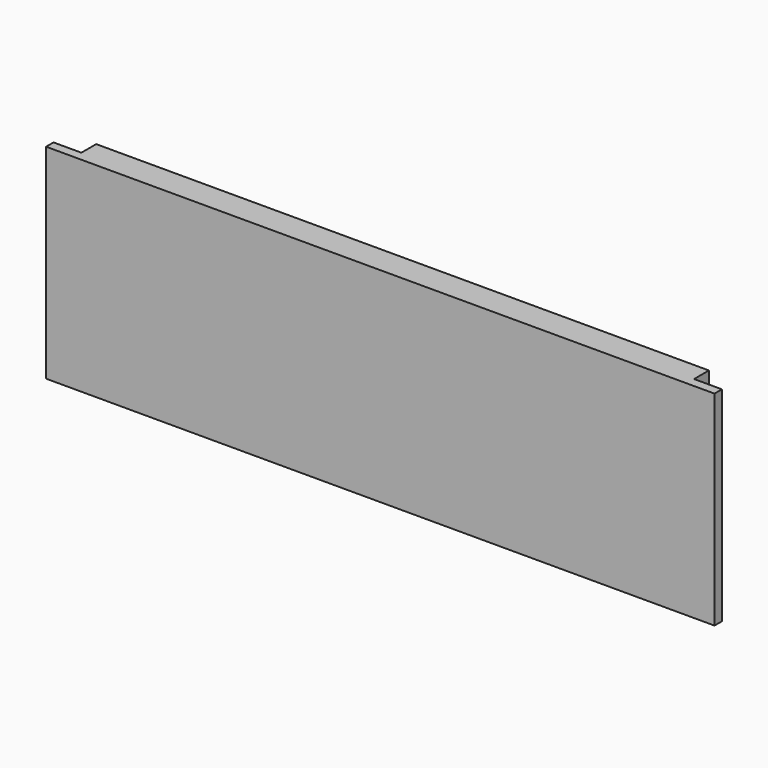
from build123d import *

# Parameters (mm, degrees)
F0_W     = 457.2
F0_H     = 139.7
F1_DEPTH = 19.05
F2_W     = 19.05
F2_H     = 12.7
F3_DEPTH = 139.701
F4_W     = 19.05
F4_H     = 12.7
F5_DEPTH = 139.701


with BuildPart() as f1:
    # F0 (on Front) → F1 (new body)
    with BuildSketch(Plane.XZ):
        with Locations((-228.6, 69.85)):
            Rectangle(F0_W, F0_H)
    extrude(amount=F1_DEPTH)

    # F2 (on face) → F3 (cut, through all)
    with BuildSketch(Plane.XY.offset(139.7)):
        with Locations((-9.525, -6.35)):
            Rectangle(F2_W, F2_H)
    extrude(amount=-F3_DEPTH, mode=Mode.SUBTRACT)

    # F4 (on face) → F5 (cut, through all)
    with BuildSketch(Plane.XY.offset(139.7)):
        with Locations((-447.675, -6.35)):
            Rectangle(F4_W, F4_H)
    extrude(amount=-F5_DEPTH, mode=Mode.SUBTRACT)


solid = f1.part
